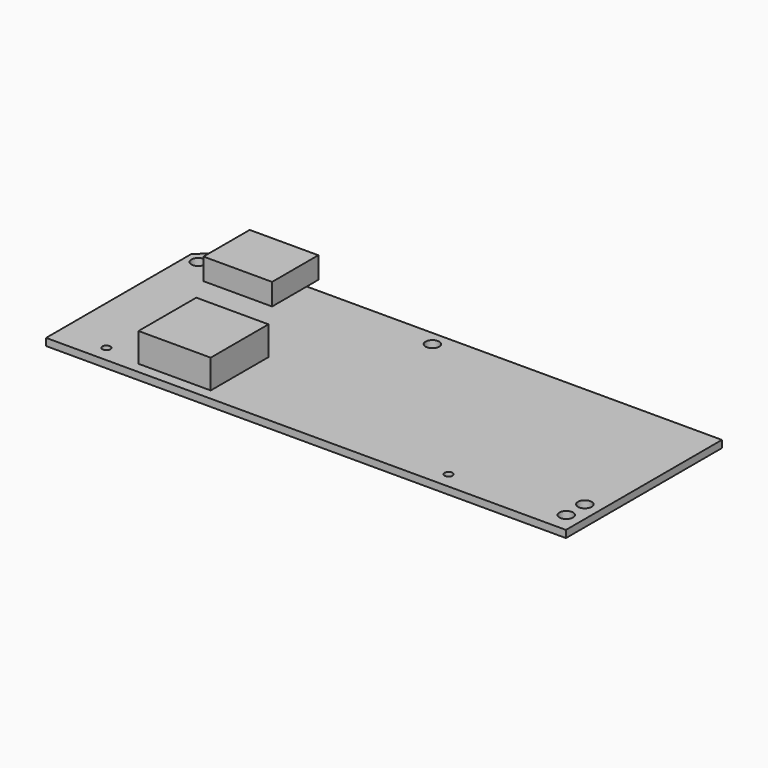
from build123d import *

# Parameters (mm, degrees)
SKETCH_R     = 0.95
SKETCH_R_2   = 0.55
PAD_DEPTH    = 1
SKETCH001_W  = 10
SKETCH001_H  = 10
PAD001_DEPTH = 4
SKETCH002_W  = 2
SKETCH002_H  = 1
PAD002_DEPTH = 0.5
SKETCH006_W  = 9.5
SKETCH006_H  = 8
PAD006_DEPTH = 3


with BuildPart() as part:
    # Sketch → Pad (new body)
    with BuildSketch(Plane.XY):
        Polygon((-36, -13.5), (36, -13.5), (36, 13.5), (-34.090812, 13.5), (-36, 11.590812), align=None)
        with Locations((-34.25, 10.65)):
            Circle(SKETCH_R, mode=Mode.SUBTRACT)
        with Locations((33.85, -7.55)):
            Circle(SKETCH_R, mode=Mode.SUBTRACT)
        with Locations((33.85, -10.75)):
            Circle(SKETCH_R, mode=Mode.SUBTRACT)
        with Locations((-2.45, 11.45)):
            Circle(SKETCH_R, mode=Mode.SUBTRACT)
        with Locations((-29.45, -11.25)):
            Circle(SKETCH_R_2, mode=Mode.SUBTRACT)
        with Locations((17.95, -11.25)):
            Circle(SKETCH_R_2, mode=Mode.SUBTRACT)
    extrude(amount=-PAD_DEPTH)

    # Sketch001 (on Face12 of Pad) → Pad001 (join)
    with BuildSketch(Plane.XY):
        with Locations((-19.4, -7)):
            Rectangle(SKETCH001_W, SKETCH001_H)
    extrude(amount=PAD001_DEPTH)

    # Sketch002 (on Face5 of Pad001) → Pad002 (join)
    with BuildSketch(Plane(origin=(0, 0, -1), x_dir=(1, 0, 0), z_dir=(0, 0, -1))):
        with Locations((-27, 7.5)):
            Rectangle(SKETCH002_W, SKETCH002_H)
        with Locations((-27, 4.3)):
            Rectangle(SKETCH002_W, SKETCH002_H)
        with Locations((-27, 1.4)):
            Rectangle(SKETCH002_W, SKETCH002_H)
        with Locations((-27, -1.5)):
            Rectangle(SKETCH002_W, SKETCH002_H)
        with Locations((-27, -4)):
            Rectangle(SKETCH002_W, SKETCH002_H)
    extrude(amount=PAD002_DEPTH)

    # Sketch006 (on Face4 of Pad002) → Pad006 (join)
    with BuildSketch(Plane.XY):
        with Locations((-26.25, 11.5)):
            Rectangle(SKETCH006_W, SKETCH006_H)
    extrude(amount=PAD006_DEPTH)


solid = part.part
